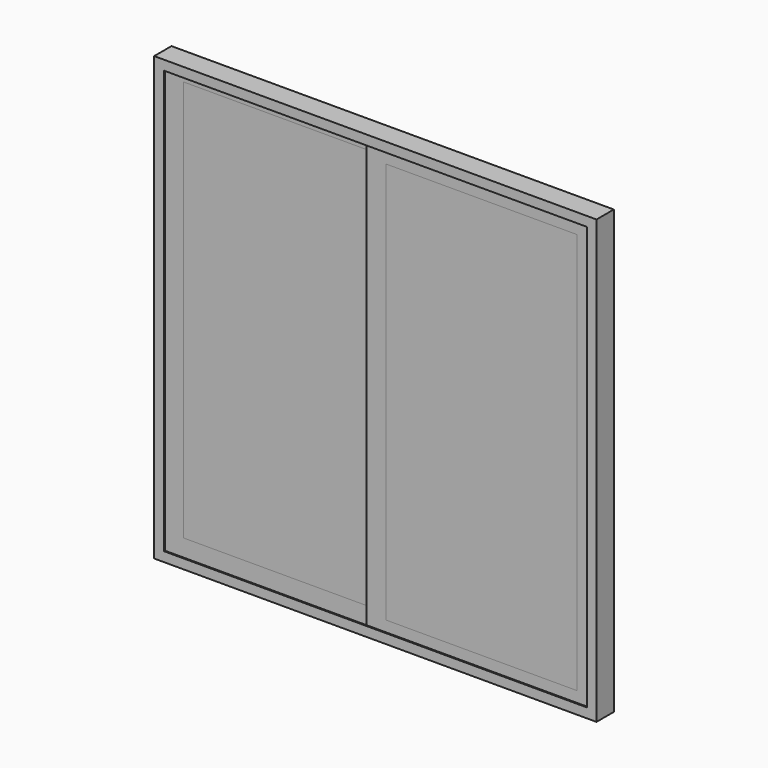
from build123d import *

# Parameters (mm, degrees)
F0_W     = 1168.4
F0_H     = 1168.4
F0_W_2   = 1117.6
F0_H_2   = 1117.6
F1_DEPTH = 57.15
F2_T     = -3.175
F3_W     = 606.425
F3_H     = 1162.05
F3_W_2   = 504.825
F3_H_2   = 1060.45
F4_DEPTH = 25.4
F5_W     = 606.425
F5_H     = 1162.05
F5_W_2   = 504.825
F5_H_2   = 1060.45
F6_DEPTH = 25.4
F7_DEPTH = 25.4
F8_DEPTH = 25.4


with BuildPart() as f1:
    # F0 (on Front) → F1 (new body)
    with BuildSketch(Plane.XZ):
        Rectangle(F0_W, F0_H)
        Rectangle(F0_W_2, F0_H_2, mode=Mode.SUBTRACT)
    extrude(amount=F1_DEPTH)

    # F2
    f2_openings = [f1.faces().sort_by_distance(p)[0] for p in [
        (558.8, -28.575, 0),
        (0, -28.575, 558.8),
        (-558.8, -28.575, 0),
        (0, -28.575, -558.8),
    ]]
    offset(amount=F2_T, openings=f2_openings)


with BuildPart() as f4:
    # F3 (on face) → F4 (new body)
    with BuildSketch(Plane.XZ.offset(3.175)):
        with Locations((-277.8125, 0)):
            Rectangle(F3_W, F3_H)
        with Locations((-277.8125, 0)):
            Rectangle(F3_W_2, F3_H_2, mode=Mode.SUBTRACT)
        with Locations((-277.8125, 0)):
            Rectangle(F3_W, F3_H)
        with Locations((-277.8125, 0)):
            Rectangle(F3_W_2, F3_H_2, mode=Mode.SUBTRACT)
    extrude(amount=F4_DEPTH)


with BuildPart() as f6:
    # F5 (on face) → F6 (new body)
    with BuildSketch(Plane(origin=(0, -53.975, 0), x_dir=(-1, 0, 0), z_dir=(0, 1, 0))):
        with Locations((-277.8125, 0)):
            Rectangle(F5_W, F5_H)
        with Locations((-277.8125, 0)):
            Rectangle(F5_W_2, F5_H_2, mode=Mode.SUBTRACT)
        with Locations((-277.8125, 0)):
            Rectangle(F5_W, F5_H)
        with Locations((-277.8125, 0)):
            Rectangle(F5_W_2, F5_H_2, mode=Mode.SUBTRACT)
    extrude(amount=F6_DEPTH)


with BuildPart() as f7:
    # F3 (on face) → F7 (new body)
    with BuildSketch(Plane.XZ.offset(3.175)):
        with Locations((-277.8125, 0)):
            Rectangle(F3_W_2, F3_H_2)
    extrude(amount=F7_DEPTH)


with BuildPart() as f8:
    # F5 (on face) → F8 (new body)
    with BuildSketch(Plane(origin=(0, -53.975, 0), x_dir=(-1, 0, 0), z_dir=(0, 1, 0))):
        with Locations((-277.8125, 0)):
            Rectangle(F5_W_2, F5_H_2)
    extrude(amount=F8_DEPTH)


solid = Compound([f1.part, f4.part, f6.part, f7.part, f8.part])
